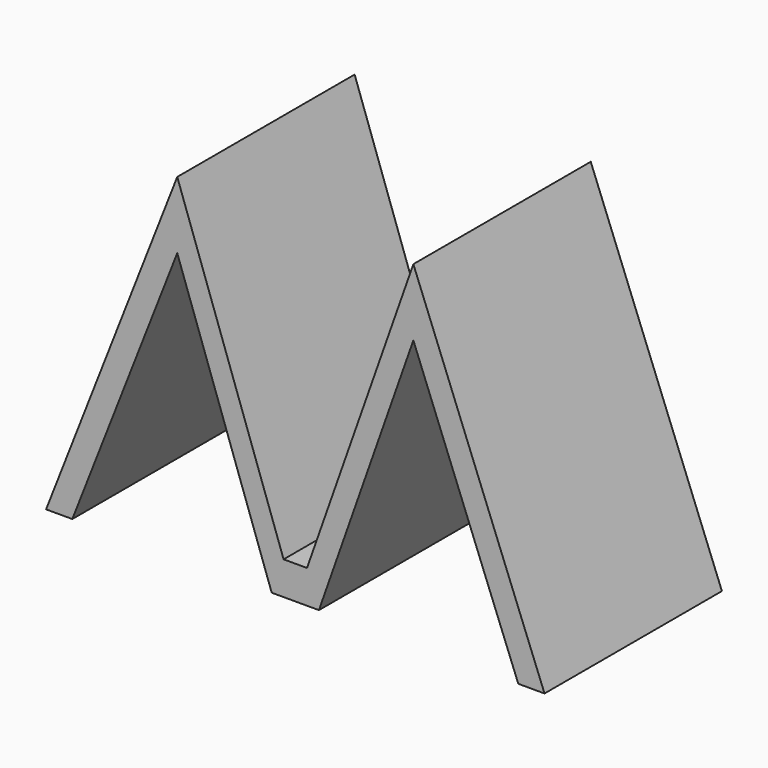
from build123d import *

# Parameters (mm, degrees)
F1_DEPTH = 25
F2_W     = 5.325386
F2_H     = 3.749341
F3_DEPTH = 25


with BuildPart() as f1:
    # F0 (on Front) → F1 (new body)
    with BuildSketch(Plane.XZ):
        Polygon((-13.309799, 37.808198), (-28.098464, 0), (-25.139917, 0), (-13.309799, 30.244477), (-2.662693, 0), (0, 0), align=None)
        Polygon((13.309799, 37.808198), (0, 0), (2.662693, 0), (13.309799, 30.244477), (25.139917, 0), (28.098464, 0), align=None)
    extrude(amount=F1_DEPTH)

    # F2 (on face) → F3 (join)
    with BuildSketch(Plane.XZ.offset(25)):
        with Locations((0, 1.87467)):
            Rectangle(F2_W, F2_H)
    extrude(amount=-F3_DEPTH)


solid = f1.part
